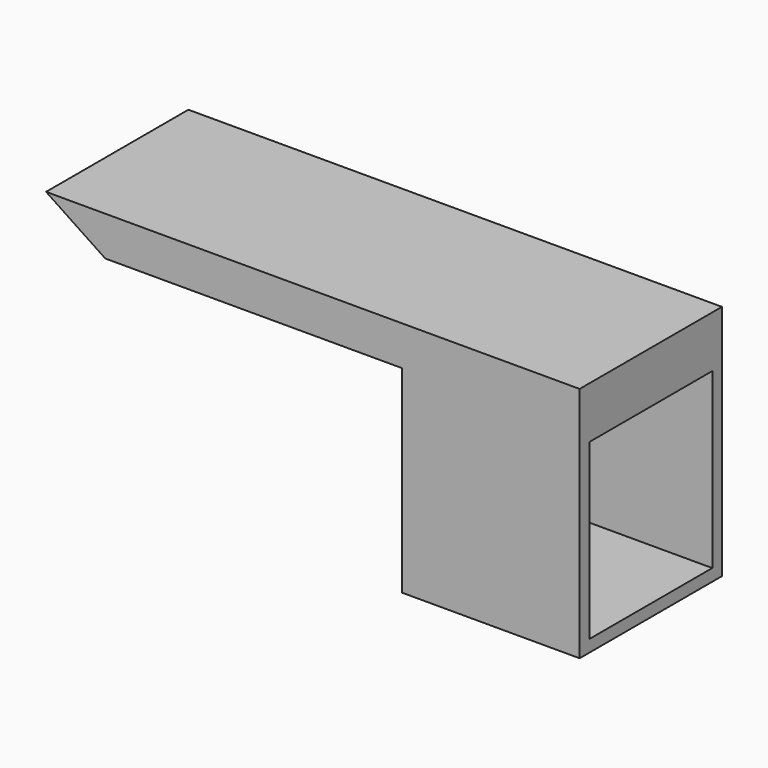
from build123d import *

# Parameters (mm, degrees)
F0_W     = 1500
F0_H     = 750
F1_DEPTH = 1000
F3_DEPTH = 750
F4_DEPTH = 750
F6_DEPTH = 750
F8_W     = 648.4
F8_H     = 731.364360714
F9_DEPTH = 700


with BuildPart() as f1:
    # F0 (on Top) → F1 (new body)
    with BuildSketch(Plane.XY):
        Rectangle(F0_W, F0_H)
    extrude(amount=-F1_DEPTH)

    # F2 (on face) → F3 (cut)
    with BuildSketch(Plane.XZ.offset(375)):
        Polygon((-750, -1000), (750, -1000), (-750, 0), align=None)
    extrude(amount=-F3_DEPTH, mode=Mode.SUBTRACT)

    # F4 (add): a face of the model
    f4_faces = [f1.faces().sort_by_distance(p)[0] for p in [
        (750, 0, -500),
    ]]
    extrude(f4_faces, amount=F4_DEPTH)

    # F5 (on face) → F6 (cut)
    with BuildSketch(Plane.XZ.offset(375)):
        Polygon((750, -166.4100588676), (-500.3849116986, -166.4100588676), (750, -1000), align=None)
        Polygon((750, -1000), (-500.3849116986, -166.4100588676), (-500.3849116986, -1000), align=None)
    extrude(amount=-F6_DEPTH, mode=Mode.SUBTRACT)

    # F8 (on face) → F9 (cut)
    with BuildSketch(Plane.YZ.offset(1500)):
        with Locations((0, -583.517819643)):
            Rectangle(F8_W, F8_H)
    extrude(amount=-F9_DEPTH, mode=Mode.SUBTRACT)


solid = f1.part
